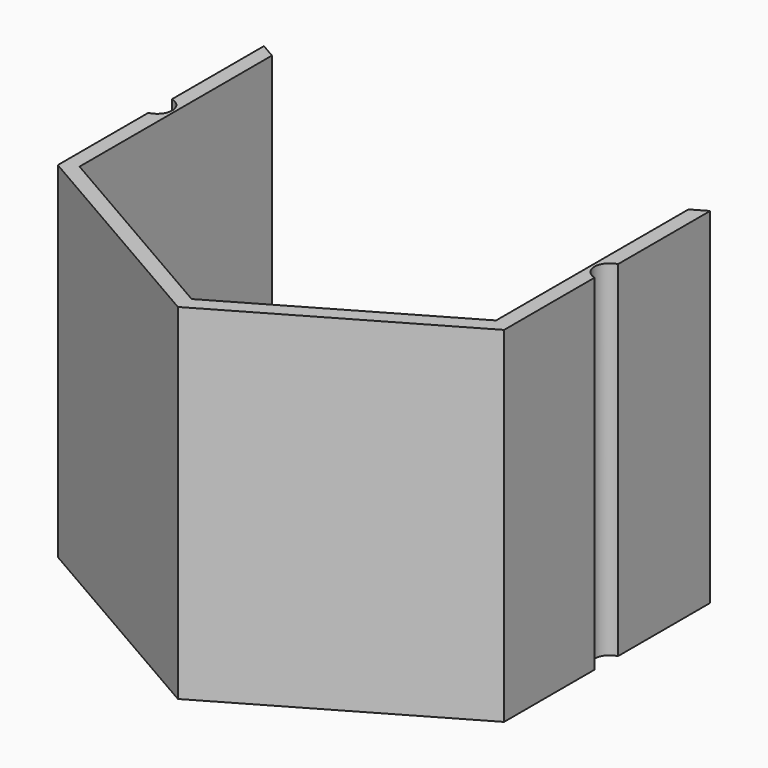
from build123d import *

# Parameters (mm, degrees)
F1_DEPTH = 2
F3_DEPTH = 56


with BuildPart() as f1:
    # F0 (on Top) → F1 (new body)
    with BuildSketch(Plane.XY):
        with BuildLine():
            Line((37.5, 2.2749325766), (37.5, 21.6506350946))
            Line((37.5, 21.6506350946), (0, 43.3012701892))
            Line((0, 43.3012701892), (-37.5, 21.6506350946))
            Line((-37.5, 21.6506350946), (-37.5, 2.2890924239))
            ThreePointArc((-37.5, 2.2890924239), (-35.4653192208, -0.1672214858), (-37.5, -2.6235353954))
            Line((-37.5, -2.6235353954), (-37.5, -21.6506350946))
            Line((-37.5, -21.6506350946), (0, -43.3012701892))
            Line((0, -43.3012701892), (37.5, -21.6506350946))
            Line((37.5, -21.6506350946), (37.5, -2.6093755481))
            ThreePointArc((37.5, -2.6093755481), (35.5346807792, -0.1672214858), (37.5, 2.2749325766))
        make_face()
        Polygon((0, 40.4145188433), (35, 20.2072594216), (35, -20.2072594216), (0, -40.4145188433), (-35, -20.2072594216), (-35, 20.2072594216), align=None, mode=Mode.SUBTRACT)
        Polygon((35, -20.2072594216), (35, 20.2072594216), (0, 40.4145188433), (-35, 20.2072594216), (-35, -20.2072594216), (0, -40.4145188433), align=None)
    extrude(amount=F1_DEPTH)

    # F2 (on face) → F3 (join)
    with BuildSketch(Plane.XY.offset(2)):
        with BuildLine():
            Line((-37.5, -2.6235353954), (-37.5, -21.6506350946))
            Line((-37.5, -21.6506350946), (0, -43.3012701892))
            Line((0, -43.3012701892), (37.5, -21.6506350946))
            Line((37.5, -21.6506350946), (37.5, -2.6093755481))
            ThreePointArc((37.5, -2.6093755481), (35.5346807792, -0.1672214858), (37.5, 2.2749325766))
            Line((37.5, 2.2749325766), (37.5, 21.6506350946))
            Line((37.5, 21.6506350946), (35, 20.2072594216))
            Line((35, 20.2072594216), (35, -20.2072594216))
            Line((35, -20.2072594216), (0, -40.4145188433))
            Line((0, -40.4145188433), (-35, -20.2072594216))
            Line((-35, -20.2072594216), (-35, 20.2072594216))
            Line((-35, 20.2072594216), (-37.5, 21.6506350946))
            Line((-37.5, 21.6506350946), (-37.5, 2.2890924239))
            ThreePointArc((-37.5, 2.2890924239), (-35.4653192208, -0.1672214858), (-37.5, -2.6235353954))
        make_face()
    extrude(amount=F3_DEPTH)


solid = f1.part
